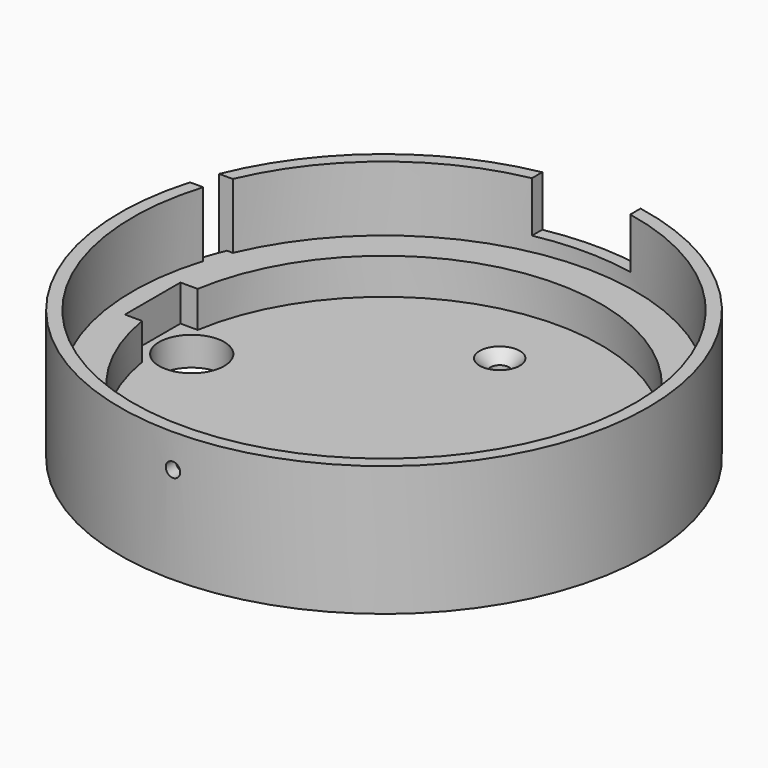
from build123d import *

# Parameters (mm, degrees)
F0_R      = 46.355
F1_DEPTH  = 22.86
F2_R      = 44.1325
F3_DEPTH  = 11.43
F4_R      = 38.1
F5_DEPTH  = 17.78
F6_W      = 81.28
F6_H      = 12.192
F7_DEPTH  = 17.78
F8_R      = 5.715
F9_DEPTH  = 22.861
F10_R     = 1.27
F11_DEPTH = 46.356
F12_W     = 17.272
F12_H     = 8.89
F13_DEPTH = 46.356
F14_R     = 1.6256
F15_DEPTH = 22.861
F16_SIZE  = 1.905
F17_W     = 4.445
F17_H     = 11.43
F18_DEPTH = 46.356
F19_SIZE  = 1.27


with BuildPart() as f1:
    # F0 (on Top) → F1 (new body)
    with BuildSketch(Plane.XY):
        Circle(F0_R)
    extrude(amount=-F1_DEPTH)

    # F2 (on face) → F3 (cut)
    with BuildSketch(Plane.XY):
        Circle(F2_R)
    extrude(amount=-F3_DEPTH, mode=Mode.SUBTRACT)

    # F4 (on Top) → F5 (cut)
    with BuildSketch(Plane.XY):
        Circle(F4_R)
    extrude(amount=-F5_DEPTH, mode=Mode.SUBTRACT)

    # F6 (on Top) → F7 (cut)
    with BuildSketch(Plane.XY):
        Rectangle(F6_W, F6_H)
    extrude(amount=-F7_DEPTH, mode=Mode.SUBTRACT)

    # F8 (on Top) → F9 (cut, through all)
    with BuildSketch(Plane.XY):
        with Locations((-33.782, 0)):
            Circle(F8_R)
        with Locations((33.782, 0)):
            Circle(F8_R)
    extrude(amount=-F9_DEPTH, mode=Mode.SUBTRACT)

    # F10 (on Front) → F11 (cut, through all)
    with BuildSketch(Plane.XZ):
        with Locations((0, -5.842)):
            Circle(F10_R)
    extrude(amount=F11_DEPTH, mode=Mode.SUBTRACT)

    # F12 (on Front) → F13 (cut, through all)
    with BuildSketch(Plane.XZ):
        with Locations((0, -4.445)):
            Rectangle(F12_W, F12_H)
    extrude(amount=-F13_DEPTH, mode=Mode.SUBTRACT)

    # F14 (on Top) → F15 (cut, through all)
    with BuildSketch(Plane.XY):
        with Locations((0, 25.4)):
            Circle(F14_R)
        with Locations((0, -25.4)):
            Circle(F14_R)
    extrude(amount=-F15_DEPTH, mode=Mode.SUBTRACT)

    # F16
    f16_edges = [f1.edges().sort_by_distance(p)[0] for p in [
        (-1.6256, 25.4, -17.78),
        (-1.6256, -25.4, -17.78),
    ]]
    chamfer(f16_edges, length=F16_SIZE)

    # F17 (on Right) → F18 (cut, through all)
    with BuildSketch(Plane.YZ):
        with Locations((15.24, -5.715)):
            Rectangle(F17_W, F17_H)
    extrude(amount=-F18_DEPTH, mode=Mode.SUBTRACT)

    # F19
    f19_edges = [f1.edges().sort_by_distance(p)[0] for p in [
        (-43.771316, 15.259683, -11.43),
    ]]
    chamfer(f19_edges, length=F19_SIZE)


solid = f1.part
